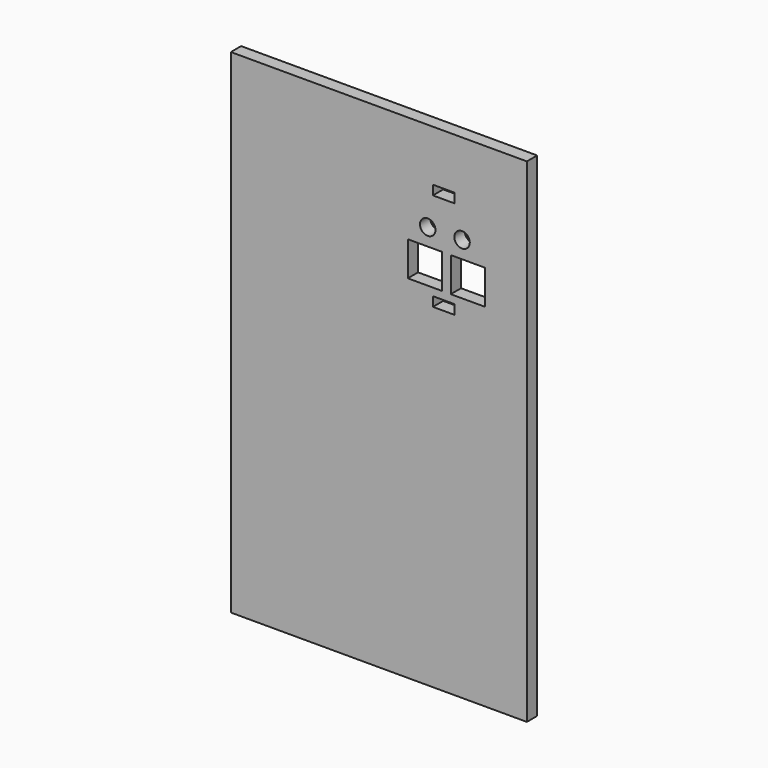
from build123d import *

# Parameters (mm, degrees)
F0_W     = 69
F0_H     = 115
F0_W_2   = 8.02
F0_H_2   = 8.02
F0_W_3   = 5
F0_H_3   = 2.2
F0_R     = 1.8
F1_DEPTH = 3


with BuildPart() as f1:
    # F0 (on Front) → F1 (new body)
    with BuildSketch(Plane.XZ):
        with Locations((34.5, 57.5)):
            Rectangle(F0_W, F0_H)
        with Locations((45.25, 86)):
            Rectangle(F0_W_2, F0_H_2, mode=Mode.SUBTRACT)
        with Locations((49.595, 79.13)):
            Rectangle(F0_W_3, F0_H_3, mode=Mode.SUBTRACT)
        with Locations((55.27, 86)):
            Rectangle(F0_W_2, F0_H_2, mode=Mode.SUBTRACT)
        with Locations((45.89, 94.0001)):
            Circle(F0_R, mode=Mode.SUBTRACT)
        with Locations((49.595, 102)):
            Rectangle(F0_W_3, F0_H_3, mode=Mode.SUBTRACT)
        with Locations((53.89, 94.0001)):
            Circle(F0_R, mode=Mode.SUBTRACT)
    extrude(amount=F1_DEPTH)


solid = f1.part
